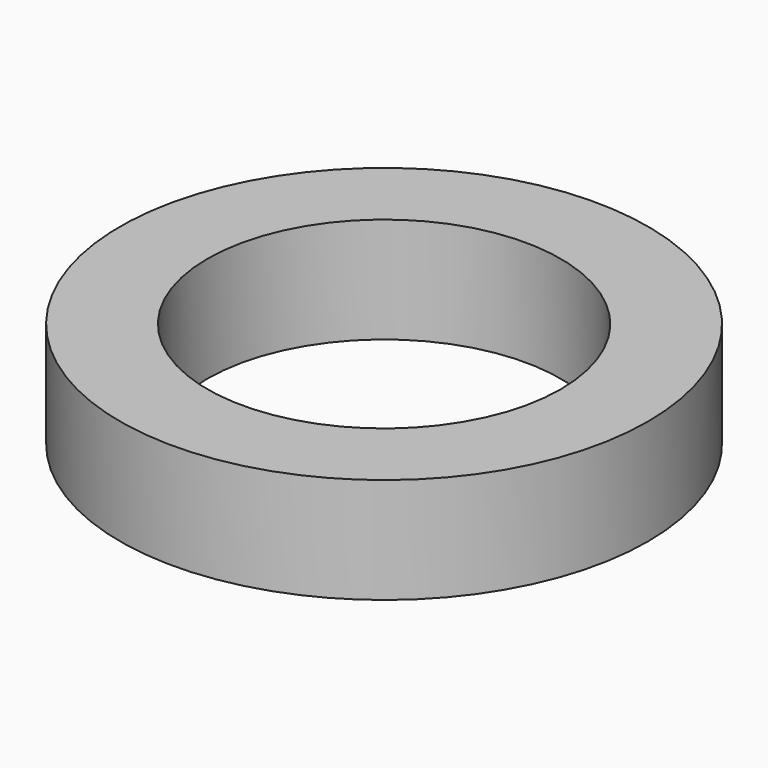
from build123d import *

# Parameters (mm, degrees)
F0_R     = 12.7
F1_DEPTH = 5.08
F2_R     = 8.5
F3_DEPTH = 5.08


with BuildPart() as f1:
    # F0 (on Top) → F1 (new body)
    with BuildSketch(Plane.XY):
        Circle(F0_R)
        Circle(F0_R)
    extrude(amount=F1_DEPTH)

    # F2 (on face) → F3 (cut, through all)
    with BuildSketch(Plane.XY.offset(5.08)):
        Circle(F2_R)
    extrude(amount=-F3_DEPTH, mode=Mode.SUBTRACT)


solid = f1.part
